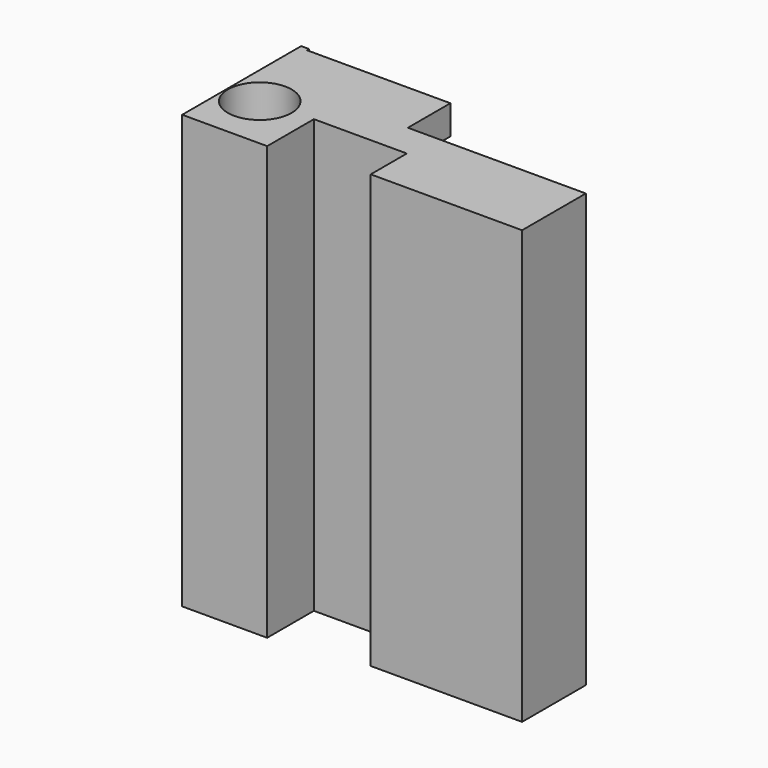
from build123d import *

# Parameters (mm, degrees)
PAD_DEPTH    = 81.5
SKETCH001_R  = 6
POCKET_DEPTH = 81.501
SKETCH002_W  = 5.5
SKETCH002_H  = 5
PAD001_DEPTH = 10
SKETCH003_W  = 1
SKETCH003_H  = 81.5
PAD002_DEPTH = 5


with BuildPart() as part:
    # Sketch → Pad (new body)
    with BuildSketch(Plane.XY):
        Polygon((62, -10.5), (62, -25.5), (33.5, -25.5), (33.5, -17), (16, -17), (16, -28), (0, -28), (0, 0), (1.5, 0), (1.5, -10.5), align=None)
    extrude(amount=PAD_DEPTH)

    # Sketch001 (on Face12 of Pad) → Pocket (cut, through all)
    with BuildSketch(Plane.XY.offset(81.5)):
        with Locations((6.2, -17.5)):
            Circle(SKETCH001_R)
    extrude(amount=-POCKET_DEPTH, mode=Mode.SUBTRACT)

    # Sketch002 (on Face12 of Pocket) → Pad001 (join)
    with BuildSketch(Plane(origin=(0, -10.5, 0), x_dir=(-1, 0, 0), z_dir=(0, 1, 0))):
        with Locations((-4.25, 2.5)):
            Rectangle(SKETCH002_W, SKETCH002_H)
        Polygon((-28.5, 81.5), (-1.5, 81.5), (-1.5, 71.5), (-6.5, 71.5), (-6.5, 76), (-28.5, 76), align=None)
    extrude(amount=PAD001_DEPTH)

    # Sketch003 (on Face13 of Pad001) → Pad002 (join)
    with BuildSketch(Plane(origin=(0, -10.5, 0), x_dir=(-1, 0, 0), z_dir=(0, 1, 0))):
        with Locations((-14.5, 40.75)):
            Rectangle(SKETCH003_W, SKETCH003_H)
    extrude(amount=PAD002_DEPTH)


solid = part.part
